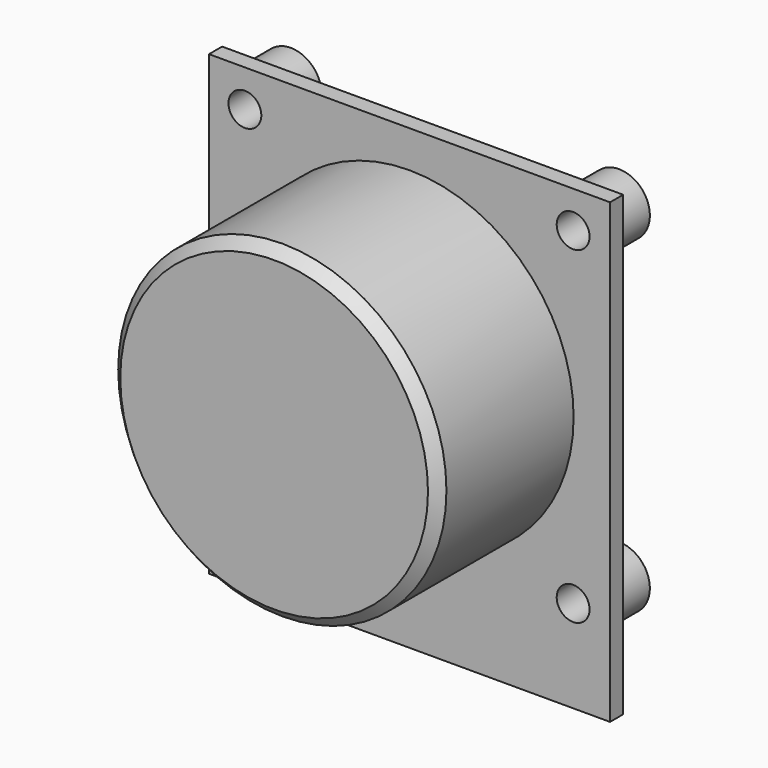
from build123d import *

# Parameters (mm, degrees)
SKETCH011_W              = 39.1
SKETCH011_H              = 44.6
SKETCH011_R              = 1.6
PAD007_DEPTH             = 1.6
SKETCH012_R              = 16
PAD008_DEPTH             = 16.5
SKETCH013_R              = 3
SKETCH013_R_2            = 1.6
PAD009_DEPTH             = 4
CHAMFER001_SIZE          = 1
CLONE001_PLACEMENT_ANGLE = 180


with BuildPart() as part:
    # Sketch011 → Pad007 (new body)
    with BuildSketch(Plane.XZ):
        Rectangle(SKETCH011_W, SKETCH011_H)
        with Locations((-15.95, 13.3)):
            Circle(SKETCH011_R, mode=Mode.SUBTRACT)
        with Locations((16.05, 13.3)):
            Circle(SKETCH011_R, mode=Mode.SUBTRACT)
        with Locations((16.05, -18.7)):
            Circle(SKETCH011_R, mode=Mode.SUBTRACT)
        with Locations((-15.95, -18.7)):
            Circle(SKETCH011_R, mode=Mode.SUBTRACT)
    extrude(amount=PAD007_DEPTH)

    # Sketch012 (on Face10 of Pad007) → Pad008 (join)
    with BuildSketch(Plane.XZ.offset(1.6)):
        with Locations((0, -2.7)):
            Circle(SKETCH012_R)
    extrude(amount=PAD008_DEPTH)

    # Sketch013 (on Face4 of Pad008) → Pad009 (join)
    with BuildSketch(Plane(origin=(0, 0, 0), x_dir=(1, 0, 0), z_dir=(0, 1, 0))):
        with Locations((-15.95, 18.7)):
            Circle(SKETCH013_R)
        with Locations((-15.95, 18.7)):
            Circle(SKETCH013_R_2, mode=Mode.SUBTRACT)
        with Locations((16.05, 18.7)):
            Circle(SKETCH013_R)
        with Locations((16.05, 18.7)):
            Circle(SKETCH013_R_2, mode=Mode.SUBTRACT)
        with Locations((16.05, -13.3)):
            Circle(SKETCH013_R)
        with Locations((16.05, -13.3)):
            Circle(SKETCH013_R_2, mode=Mode.SUBTRACT)
        with Locations((-15.95, -13.3)):
            Circle(SKETCH013_R)
        with Locations((-15.95, -13.3)):
            Circle(SKETCH013_R_2, mode=Mode.SUBTRACT)
    extrude(amount=PAD009_DEPTH)

    # Chamfer001
    chamfer001_edges = [part.edges().sort_by_distance(p)[0] for p in [
        (-16, -18.1, -2.7),
    ]]
    chamfer(chamfer001_edges, length=CHAMFER001_SIZE)


with BuildPart() as part_1:
    # Body008 placement: moved
    add(part.part.moved(Location((-20, -18.1, -102.9))))


with BuildPart() as part_2:
    # Clone placement: moved
    add(part_1.part.moved(Location((40, 0, 0))))


with BuildPart() as part_3:
    # Clone001 placement: moved
    add(part_2.part.moved(Location((0, 0, -160.4))).rotate(Axis((0, 0, -160.4), (0, 1, 0)), CLONE001_PLACEMENT_ANGLE))


with BuildPart() as part_4:
    # Clone002 placement: moved
    add(part_3.part.moved(Location((40, 0, 0))))


solid = part_4.part
